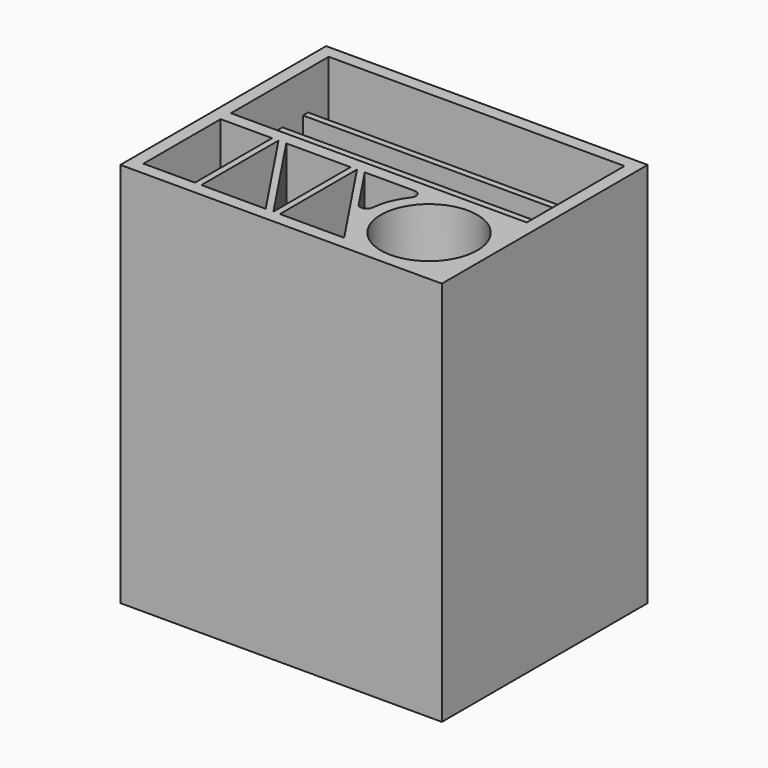
from build123d import *

# Parameters (mm, degrees)
F0_W     = 250
F0_H     = 200
F1_DEPTH = 300
F2_W     = 230
F2_H     = 20
F3_DEPTH = 280
F4_W     = 230
F4_H     = 55
F5_DEPTH = 30
F6_R     = 37.5
F7_DEPTH = 160
F6_W     = 40
F6_H     = 75
F8_DEPTH = 200


with BuildPart() as f1:
    # F0 (on Top) → F1 (new body)
    with BuildSketch(Plane.XY):
        with Locations((0.84289, 5.342618)):
            Rectangle(F0_W, F0_H)
    extrude(amount=F1_DEPTH)

    # F2 (on face) → F3 (cut)
    with BuildSketch(Plane.XY.offset(300)):
        with Locations((0.84289, 85.342618)):
            Rectangle(F2_W, F2_H)
        with Locations((0.84289, 60.342618)):
            Rectangle(F2_W, F2_H)
        with Locations((0.84289, 35.342618)):
            Rectangle(F2_W, F2_H)
        with Locations((0.84289, 10.342618)):
            Rectangle(F2_W, F2_H)
    extrude(amount=-F3_DEPTH, mode=Mode.SUBTRACT)

    # F4 (on face) → F5 (cut)
    with BuildSketch(Plane.XY.offset(300)):
        with Locations((0.84289, 47.842618)):
            Rectangle(F4_W, F4_H)
    extrude(amount=-F5_DEPTH, mode=Mode.SUBTRACT)

    # F6 (on face) → F7 (cut)
    with BuildSketch(Plane.XY.offset(300)):
        with Locations((77.84289, -47.157382)):
            Circle(F6_R)
    extrude(amount=-F7_DEPTH, mode=Mode.SUBTRACT)

    # F6 (on face) → F8 (cut)
    with BuildSketch(Plane.XY.offset(300)):
        with Locations((-94.15711, -47.157382)):
            Rectangle(F6_W, F6_H)
        Polygon((-19.15711, -84.657382), (-69.15711, -9.657382), (-69.15711, -84.657382), align=None)
        Polygon((-13.147858, -9.657382), (-63.147858, -9.657382), (-13.147858, -84.657382), align=None)
        Polygon((-8.147858, -9.657382), (-8.147858, -84.657382), (41.852142, -84.657382), align=None)
        with BuildLine():
            Line((36.611834, -9.657382), (-2.138606, -9.657382))
            Line((-2.138606, -9.657382), (21.415755, -44.988925))
            ThreePointArc((21.415755, -44.988925), (26.797834, -47.06384), (30.553805, -42.686086))
            ThreePointArc((30.553805, -42.686086), (33.747208, -29.498932), (40.538601, -17.752621))
            ThreePointArc((40.538601, -17.752621), (41.110511, -12.475204), (36.611834, -9.657382))
        make_face()
    extrude(amount=-F8_DEPTH, mode=Mode.SUBTRACT)


solid = f1.part
